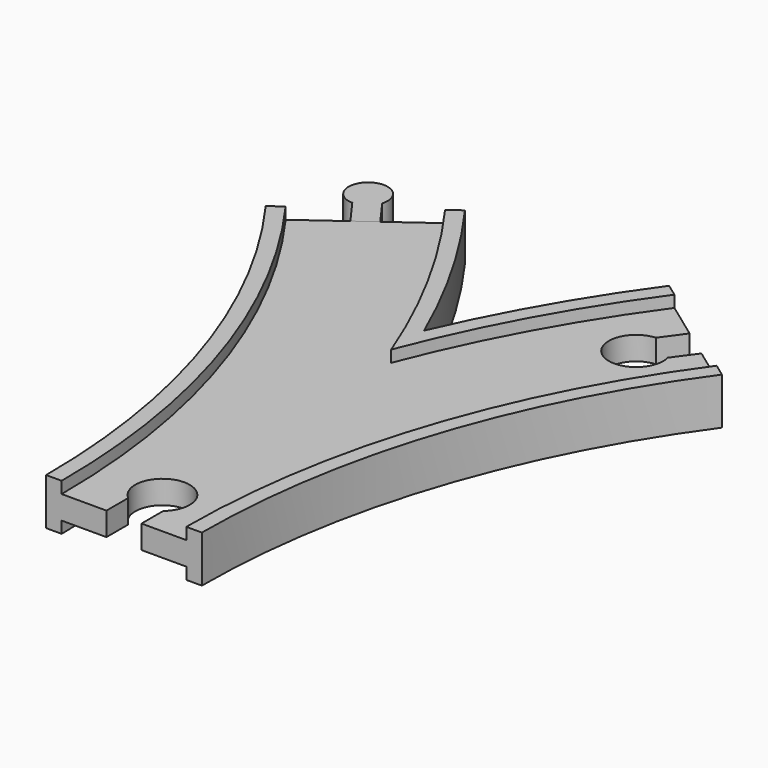
from build123d import *

# Parameters (mm, degrees)
SKETCH013_W          = 32
SKETCH013_H          = 3
POCKET_DEPTH         = 6.001
POCKET_DEPTH_BACK    = -6.001
POCKET001_DEPTH      = 6.001
POCKET001_DEPTH_BACK = -6.001
PAD002_DEPTH         = 3


with BuildPart() as main:
    # AdditivePipe: sweep along a path in Sketch
    with BuildLine(Plane.XY) as additivepipe_path:
        ThreePointArc((0, 0), (-10.865453, 68.601773), (-42.398227, 130.488326))
    # Sketch002 → AdditivePipe (sweep)
    with BuildSketch(Plane.XZ):
        Polygon((-20, 6), (-20, -6), (-16, -6), (-16, -3), (-9, -3), (9, -3), (16, -3), (16, -6), (20, -6), (20, 6), (16, 6), (16, 3), (9, 3), (-9, 3), (-16, 3), (-16, 6), align=None)
    sweep(path=additivepipe_path.line)

    # AdditivePipe001: sweep along a path in Sketch001
    with BuildLine(Plane.XY) as additivepipe001_path:
        ThreePointArc((42.398227, 130.488326), (10.865453, 68.601773), (0, 0))
    # Sketch002 → AdditivePipe001 (sweep)
    with BuildSketch(Plane.XZ):
        Polygon((-20, 6), (-20, -6), (-16, -6), (-16, -3), (-9, -3), (9, -3), (16, -3), (16, -6), (20, -6), (20, 6), (16, 6), (16, 3), (9, 3), (-9, 3), (-16, 3), (-16, 6), align=None)
    sweep(path=additivepipe001_path.line)

    # SubtractivePipe: sweep along a path in Sketch
    with BuildLine(Plane.XY) as subtractivepipe_path:
        ThreePointArc((0, 0), (-10.865453, 68.601773), (-42.398227, 130.488326))
    # Sketch013 (on Face1 of AdditivePipe001) → SubtractivePipe (sweep, cut)
    with BuildSketch(Plane.XZ):
        with Locations((0, 4.5)):
            Rectangle(SKETCH013_W, SKETCH013_H)
    subtractivepipe = sweep(path=subtractivepipe_path.line, mode=Mode.SUBTRACT)

    # SubtractivePipe001: sweep along a path in Sketch001
    with BuildLine(Plane.XY) as subtractivepipe001_path:
        ThreePointArc((42.398227, 130.488326), (10.865453, 68.601773), (0, 0))
    # Sketch013 (on Face1 of AdditivePipe001) → SubtractivePipe001 (sweep, cut)
    with BuildSketch(Plane.XZ):
        with Locations((0, 4.5)):
            Rectangle(SKETCH013_W, SKETCH013_H)
    subtractivepipe001 = sweep(path=subtractivepipe001_path.line, mode=Mode.SUBTRACT)

    # Mirrored: SubtractivePipe across XY
    add(subtractivepipe.mirror(Plane.XY), mode=Mode.SUBTRACT)

    # Mirrored001: SubtractivePipe001 across XY
    add(subtractivepipe001.mirror(Plane.XY), mode=Mode.SUBTRACT)

    # Sketch007 → Pocket (cut, two sides)
    with BuildSketch(Plane.XY) as pocket_sk:
        with BuildLine():
            Line((-4.5, 0), (4.5, 0))
            Line((4.5, 0), (4.5, 7))
            ThreePointArc((4.5, 7), (0, 19.361903), (-4.5, 7))
            Line((-4.5, 0), (-4.5, 7))
        make_face()
    extrude(amount=-POCKET_DEPTH, mode=Mode.SUBTRACT)
    extrude(pocket_sk.sketch, amount=-POCKET_DEPTH_BACK, mode=Mode.SUBTRACT)

    # Sketch009 → Pocket001 (cut, two sides)
    with BuildSketch(Plane.XY) as pocket001_sk:
        with BuildLine():
            Line((38.757651, 133.13336), (46.038804, 127.843292))
            Line((46.038804, 127.843292), (41.924307, 122.180173))
            ThreePointArc((34.643154, 127.470241), (31.017586, 114.824218), (41.924307, 122.180173))
            Line((38.757651, 133.13336), (34.643154, 127.470241))
        make_face()
    extrude(amount=-POCKET001_DEPTH, mode=Mode.SUBTRACT)
    extrude(pocket001_sk.sketch, amount=-POCKET001_DEPTH_BACK, mode=Mode.SUBTRACT)


with BuildPart() as male2:
    # Sketch012 → Pad002 (new body, symmetric)
    with BuildSketch(Plane.XY):
        with BuildLine():
            Line((-44.825278, 128.72497), (-39.971176, 132.251682))
            Line((-39.971176, 132.251682), (-44.673458, 138.723818))
            ThreePointArc((-44.673458, 138.723818), (-52.390577, 144.241615), (-49.52756, 135.197106))
            Line((-44.825278, 128.72497), (-49.52756, 135.197106))
        make_face()
    extrude(amount=PAD002_DEPTH, both=True)


solid = Compound([main.part, male2.part])
